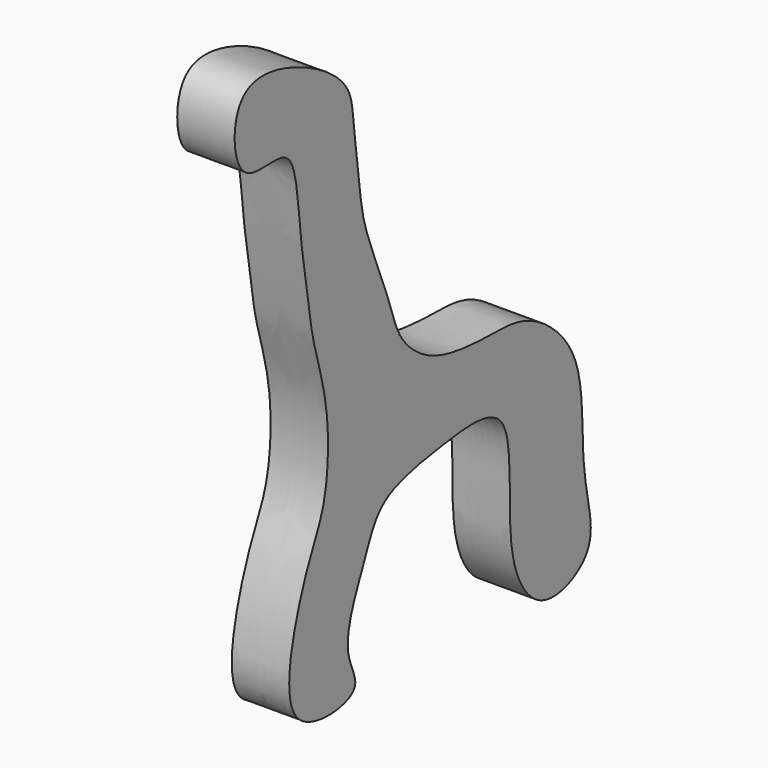
from build123d import *

# Parameters (mm, degrees)
F1_DEPTH = 12


with BuildPart() as f1:
    # F0 (on Right) → F1 (new body)
    with BuildSketch(Plane.YZ):
        with BuildLine():
            add(Edge.make_bspline(
                [(-49.2674484849, -59.4770908356), (-53.8395570668, -55.2539653676), (-49.5305466951, -37.7130174687), (-45.6088189593, -29.3224152069), (-41.8001252354, -21.4073493894), (-41.0988329317, -5.1198852514), (-45.806977606, 8.3446156011), (-46.7789135712, 16.5311108182), (-49.057977222, 28.9489777371), (-49.6861457422, 39.9020734911), (-52.4761191068, 47.6686027457), (-66.3481075151, 42.8687073667), (-67.4068206917, 66.0938886854), (-46.9010449418, 60.6679439858), (-35.8543980518, 52.4151047538), (-35.0394851717, 44.8080599824), (-33.2084985593, 28.8665804134), (-31.6600963601, 22.2138262547), (-25.108241644, 6.9482637155), (-23.4585766358, -0.2182661641), (-14.9244238384, -8.2618848933), (0.2028782292, -9.311923111), (10.9724615969, -8.9215923654), (25.4338639371, -20.9230394796), (24.3124195535, -40.0115439766), (26.2384796081, -49.9564734087), (28.2008050093, -60.5280006459), (13.6806418258, -67.0691626279), (3.2394327297, -51.4573832276), (8.7768546519, -21.6506016883), (-12.126083634, -24.2346333438), (-28.2701075126, -26.8871719907), (-31.8097497701, -37.0716426733), (-39.2199091194, -51.8395741053), (-30.5145662558, -61.7996211582), (-45.4911058665, -62.9651901232), (-49.2674484849, -59.4770908356)],
                knots=[0, 0, 0, 0, 0.0380151139, 0.0646137541, 0.0883043304, 0.1217287042, 0.1530310876, 0.1768424355, 0.2062362861, 0.2344213461, 0.2551152394, 0.2815109291, 0.3123824471, 0.3458284697, 0.3764775994, 0.3990581359, 0.4316034357, 0.4548774985, 0.487919815, 0.5108789957, 0.5378181592, 0.5697491657, 0.596971399, 0.630709115, 0.6661892628, 0.693194104, 0.7181922119, 0.7461332228, 0.7790628321, 0.8205264855, 0.8530717792, 0.8861141009, 0.9124361663, 0.9454784843, 0.9686013374, 1, 1, 1, 1], degree=3))
        make_face()
    extrude(amount=F1_DEPTH)


solid = f1.part
